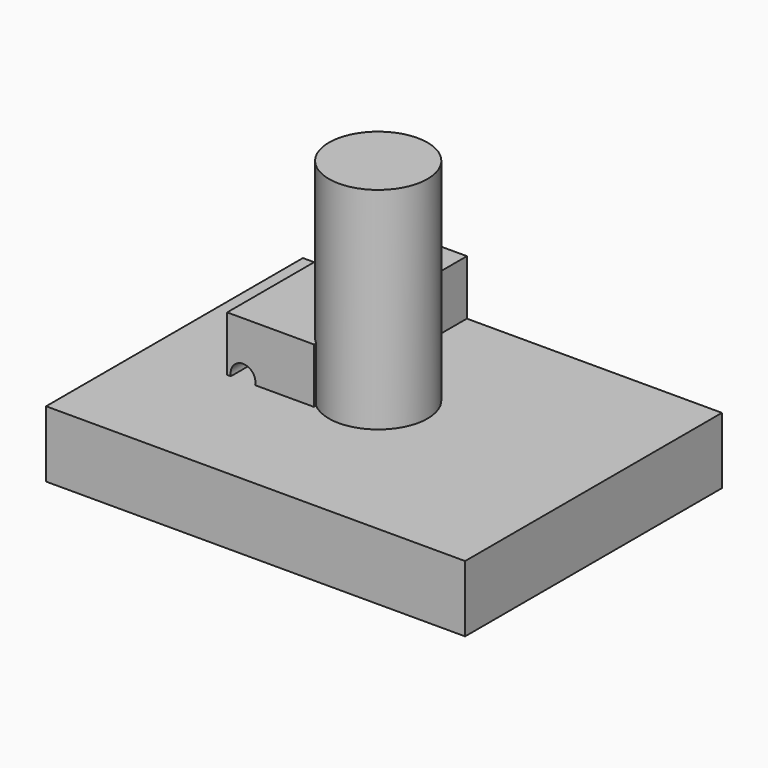
from build123d import *

# Parameters (mm, degrees)
F0_W     = 242.7079752088
F0_H     = 38.4193509817
F1_DEPTH = 185.928
F2_R     = 28.5688993419
F3_DEPTH = 122.174
F4_R     = 8.5256392181
F4_R_2   = 7.1835260989
F4_R_3   = 5.0238918194
F5_DEPTH = 110.744


with BuildPart() as f1:
    # F0 (on Front) → F1 (new body)
    with BuildSketch(Plane.XZ):
        with Locations((-4.9031935632, -51.0637238622)):
            Rectangle(F0_W, F0_H)
    extrude(amount=F1_DEPTH)

    # F2 (on face) → F3 (join)
    with BuildSketch(Plane.XY.offset(-31.8540483713)):
        with Locations((-12.5624807552, -87.5830799341)):
            Circle(F2_R)
    extrude(amount=F3_DEPTH)

    # F4 (on Front) → F5 (join)
    with BuildSketch(Plane.XZ):
        with BuildLine():
            Line((-31.2578417361, 0), (-81.515558064, 0))
            Line((-81.515558064, 0), (-81.515558064, -78.5908699036))
            Line((-81.515558064, -78.5908699036), (-31.2578417361, -78.5908699036))
            Line((-31.2578417361, -78.5908699036), (-31.2578417361, -68.2470542583))
            ThreePointArc((-31.2578417361, -68.2470542583), (-54.1109280597, -64.0015229583), (-31.2578417361, -59.7559916582))
            Line((-31.2578417361, -59.7559916582), (-31.2578417361, 0))
        make_face()
        with Locations((-68.0317804217, -68.9809322357)):
            Circle(F4_R, mode=Mode.SUBTRACT)
        with Locations((-72.3220780492, -30.3810052574)):
            Circle(F4_R_2, mode=Mode.SUBTRACT)
        with Locations((-47.1932142973, -37.2236035764)):
            Circle(F4_R_3, mode=Mode.SUBTRACT)
        with BuildLine():
            ThreePointArc((-30.4691283096, -64.0015229583), (-30.6679791986, -61.8424372207), (-31.2578417361, -59.7559916582))
            Line((-31.2578417361, -59.7559916582), (-31.2578417361, -68.2470542583))
            ThreePointArc((-31.2578417361, -68.2470542583), (-30.6679791986, -66.1606086959), (-30.4691283096, -64.0015229583))
        make_face()
        with BuildLine():
            Line((-31.2578417361, -68.2470542583), (-31.2578417361, -59.7559916582))
            ThreePointArc((-31.2578417361, -59.7559916582), (-54.1109280597, -64.0015229583), (-31.2578417361, -68.2470542583))
        make_face()
    extrude(amount=F5_DEPTH)


solid = f1.part
